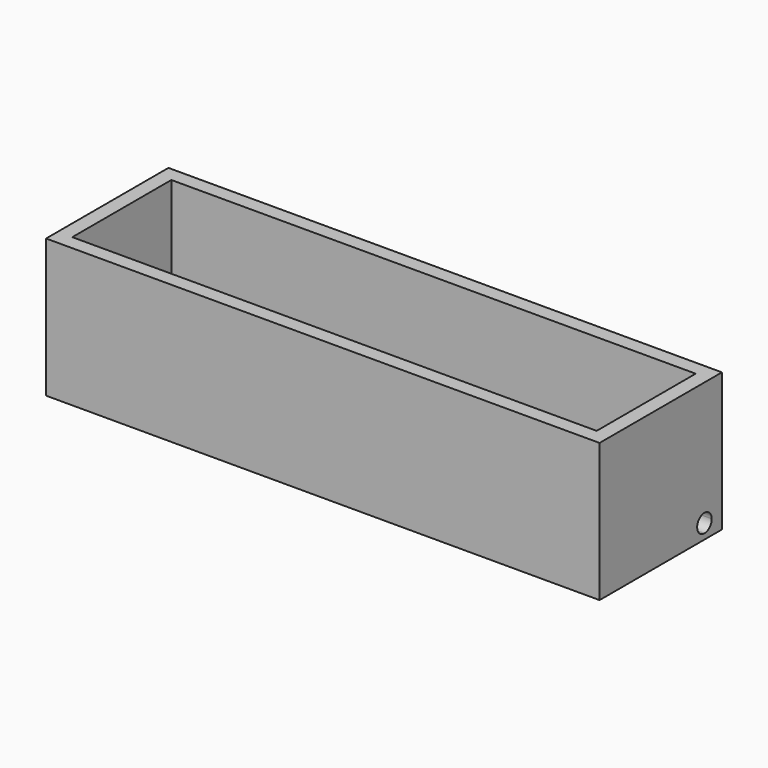
from build123d import *

# Parameters (mm, degrees)
F0_W     = 76
F0_H     = 21
F1_DEPTH = 19
F2_W     = 72
F2_H     = 17
F3_DEPTH = 17
F4_R     = 1.5
F5_DEPTH = 19.001
F6_R     = 1.25
F7_DEPTH = 2
F9_DEPTH = 2


with BuildPart() as f1:
    # F0 (on Top) → F1 (new body)
    with BuildSketch(Plane.XY):
        Rectangle(F0_W, F0_H)
    extrude(amount=F1_DEPTH)

    # F2 (on face) → F3 (cut)
    with BuildSketch(Plane.XY.offset(19)):
        Rectangle(F2_W, F2_H)
    extrude(amount=-F3_DEPTH, mode=Mode.SUBTRACT)

    # F4 (on face) → F5 (cut, through all)
    with BuildSketch(Plane(origin=(0, 0, 0), x_dir=(1, 0, 0), z_dir=(0, 0, -1))):
        Circle(F4_R)
    extrude(amount=-F5_DEPTH, mode=Mode.SUBTRACT)

    # F6 (on face) → F7 (cut)
    with BuildSketch(Plane(origin=(-38, 0, 0), x_dir=(0, -1, 0), z_dir=(-1, 0, 0))):
        with Locations((7.5, 2)):
            Circle(F6_R)
    extrude(amount=-F7_DEPTH, mode=Mode.SUBTRACT)

    # F8 (on face) → F9 (cut)
    with BuildSketch(Plane.YZ.offset(38)):
        with BuildLine():
            ThreePointArc((7.5, 0.75), (8.383883, 1.116117), (8.75, 2))
            Line((8.75, 2), (7.5, 2))
            Line((7.5, 2), (7.5, 0.75))
        make_face()
        with BuildLine():
            Line((7.5, 2), (8.75, 2))
            ThreePointArc((8.75, 2), (6.616117, 2.883883), (7.5, 0.75))
            Line((7.5, 0.75), (7.5, 2))
        make_face()
    extrude(amount=-F9_DEPTH, mode=Mode.SUBTRACT)


solid = f1.part
